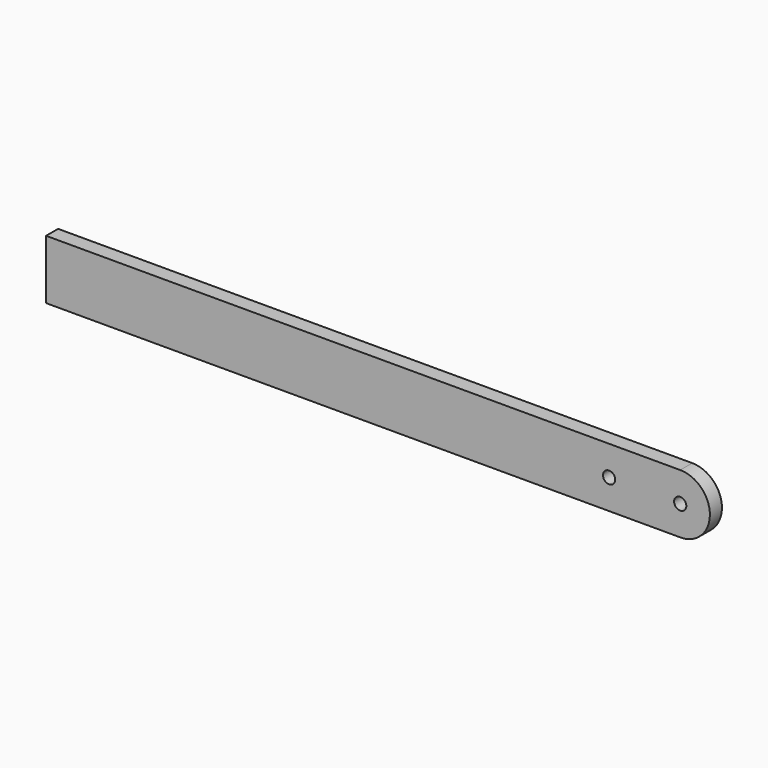
from build123d import *

# Parameters (mm, degrees)
F1_DEPTH = 12.7
F2_D     = 10.3


with BuildPart() as f1:
    # F0 (on Front) → F1 (new body)
    with BuildSketch(Plane.XZ):
        with BuildLine():
            Line((0, 50), (0, 0))
            Line((0, 0), (533.4, 0))
            ThreePointArc((533.4, 0), (559.9875908398, 24.1872031751), (534.9751878329, 50))
            Line((534.9751878329, 50), (0, 50))
        make_face()
    extrude(amount=F1_DEPTH)

    # F2 (through all)
    with Locations(Plane(origin=(0, 0, 0), x_dir=(1, 0, 0), z_dir=(0, 1, 0))):
        with Locations((474.9751878329, -24.9751878329), (534.9751878329, -24.9751878329)):
            Hole(F2_D / 2)


solid = f1.part
